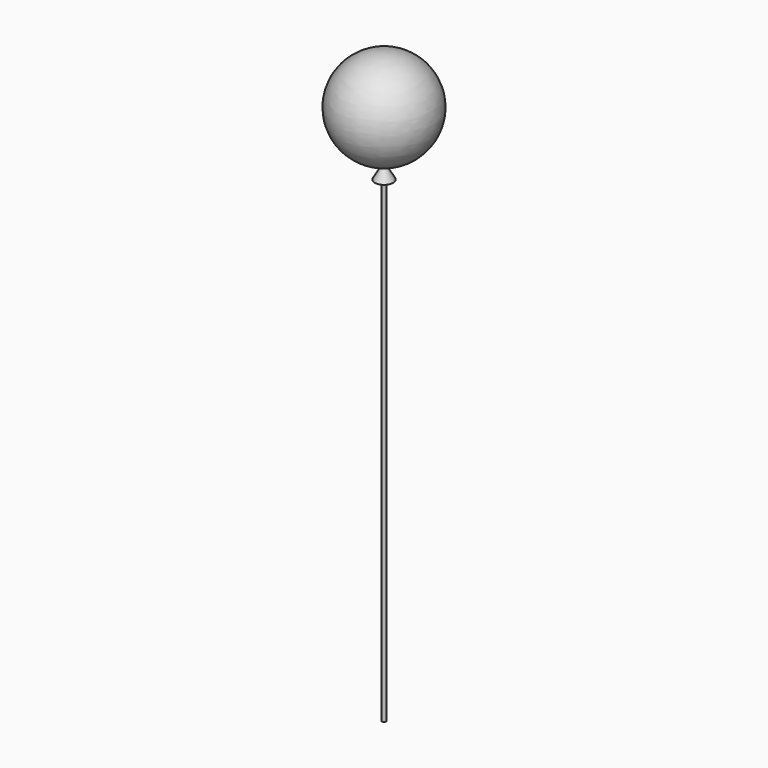
from build123d import *

# Parameters (mm, degrees)
F2_R     = 3.353203
F3_DEPTH = 762


with BuildPart() as f1:
    # F0 (on Front) → F1 (revolve)
    with BuildSketch(Plane.XZ):
        with BuildLine():
            Line((0, -76.307516), (0, 76.092484))
            ThreePointArc((0, 76.092484), (-76.867881, -0.107516), (0, -76.307516))
        make_face()
        Polygon((0, -101.707516), (0, -76.307516), (-14.664697, -101.707516), align=None)
    revolve(axis=Axis((0, 0, -0.107516), (0, 0, -1)))

    # F2 (on face) → F3 (join)
    with BuildSketch(Plane(origin=(0, 0, -101.707516), x_dir=(1, 0, 0), z_dir=(0, 0, -1))):
        Circle(F2_R)
    extrude(amount=F3_DEPTH)


solid = f1.part
